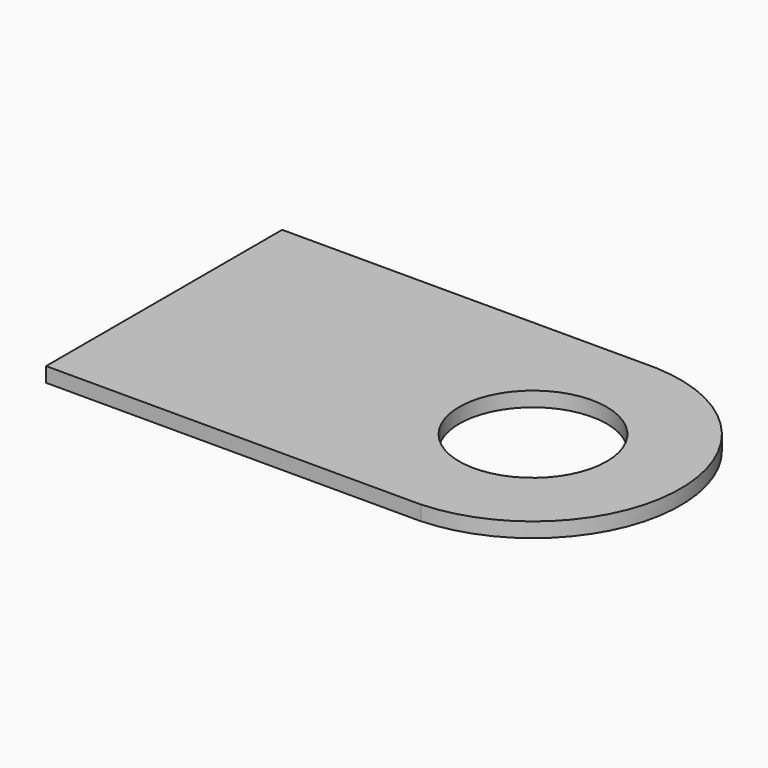
from build123d import *

# Parameters (mm, degrees)
CYLINDER026_R     = 0.5
CYLINDER026_DEPTH = 0.1
BOX011_W          = 2.54
BOX011_H          = 2
BOX011_DEPTH      = 0.1
CYLINDER025_R     = 0.5
CYLINDER025_DEPTH = 0.1
CYLINDER024_R     = 1
CYLINDER024_DEPTH = 0.1


with BuildPart() as cylinder026:
    # Cylinder026 → Cylinder026 (new body)
    with BuildSketch(Plane.XY.offset(1)):
        Circle(CYLINDER026_R)
    extrude(amount=CYLINDER026_DEPTH)


with BuildPart() as cut018:
    # Box011 → Box011 (new body)
    with BuildSketch(Plane(origin=(-2.5, -1, 1), x_dir=(1, 0, 0), z_dir=(0, 0, 1))):
        with Locations((1.27, 1)):
            Rectangle(BOX011_W, BOX011_H)
    extrude(amount=BOX011_DEPTH)

    # Cut018: cut Cylinder026
    add(cylinder026.part, mode=Mode.SUBTRACT)


with BuildPart() as cylinder025:
    # Cylinder025 → Cylinder025 (new body)
    with BuildSketch(Plane.XY.offset(1)):
        Circle(CYLINDER025_R)
    extrude(amount=CYLINDER025_DEPTH)


with BuildPart() as fusion008:
    # Cylinder024 → Cylinder024 (new body)
    with BuildSketch(Plane.XY.offset(1)):
        Circle(CYLINDER024_R)
    extrude(amount=CYLINDER024_DEPTH)

    # Cut017: cut Cylinder025
    add(cylinder025.part, mode=Mode.SUBTRACT)

    # Fusion008: union Cut018
    add(cut018.part)


with BuildPart() as fusion008_1:
    # Fusion008 placement: moved
    add(fusion008.part.moved(Location((0, -20.32, 5.5))))


solid = fusion008_1.part
